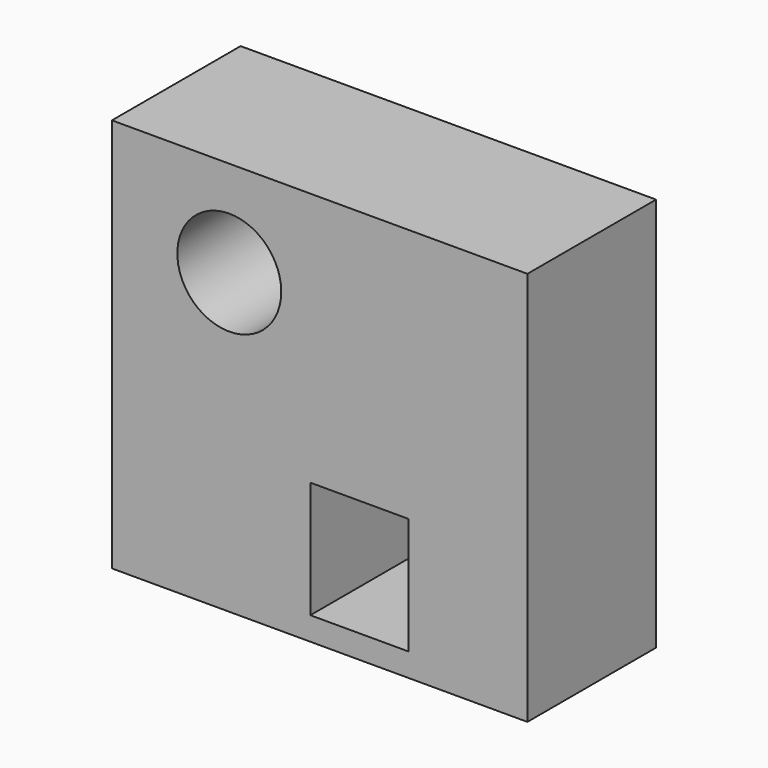
from build123d import *

# Parameters (mm, degrees)
F0_W     = 65.630324
F0_H     = 62.311936
F1_DEPTH = 25.4
F2_R     = 8.207931
F3_DEPTH = 25.401
F4_W     = 15.485808
F4_H     = 18.435483
F5_DEPTH = 25.4


with BuildPart() as f1:
    # F0 (on Front) → F1 (new body)
    with BuildSketch(Plane.XZ):
        Rectangle(F0_W, F0_H)
    extrude(amount=F1_DEPTH)

    # F2 (on face) → F3 (cut, through all)
    with BuildSketch(Plane.XZ.offset(25.4)):
        with Locations((-14.278099, 16.009722)):
            Circle(F2_R)
    extrude(amount=-F3_DEPTH, mode=Mode.SUBTRACT)

    # F4 (on face) → F5 (cut)
    with BuildSketch(Plane.XZ.offset(25.4)):
        with Locations((6.268065, -18.251129)):
            Rectangle(F4_W, F4_H)
    extrude(amount=-F5_DEPTH, mode=Mode.SUBTRACT)


solid = f1.part
